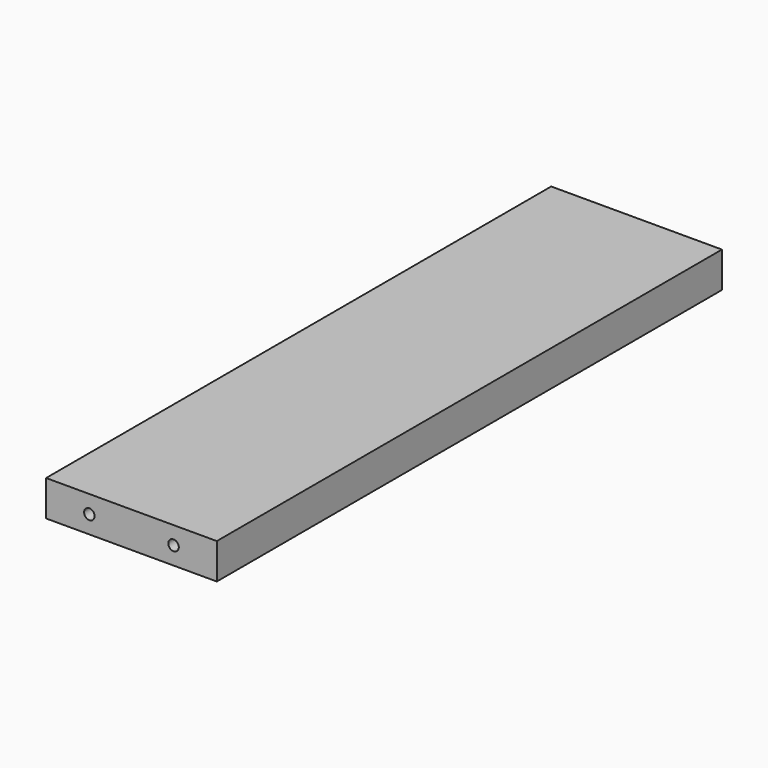
from build123d import *

# Parameters (mm, degrees)
F0_W     = 206.064015
F0_H     = 42.987824
F0_R     = 6.35
F1_DEPTH = 762


with BuildPart() as f1:
    # F0 (on Front) → F1 (new body)
    with BuildSketch(Plane.XZ):
        with Locations((-50.800006, 0)):
            Rectangle(F0_W, F0_H)
        with Locations((-101.6, 0)):
            Circle(F0_R, mode=Mode.SUBTRACT)
        Circle(F0_R, mode=Mode.SUBTRACT)
    extrude(amount=F1_DEPTH)


solid = f1.part
